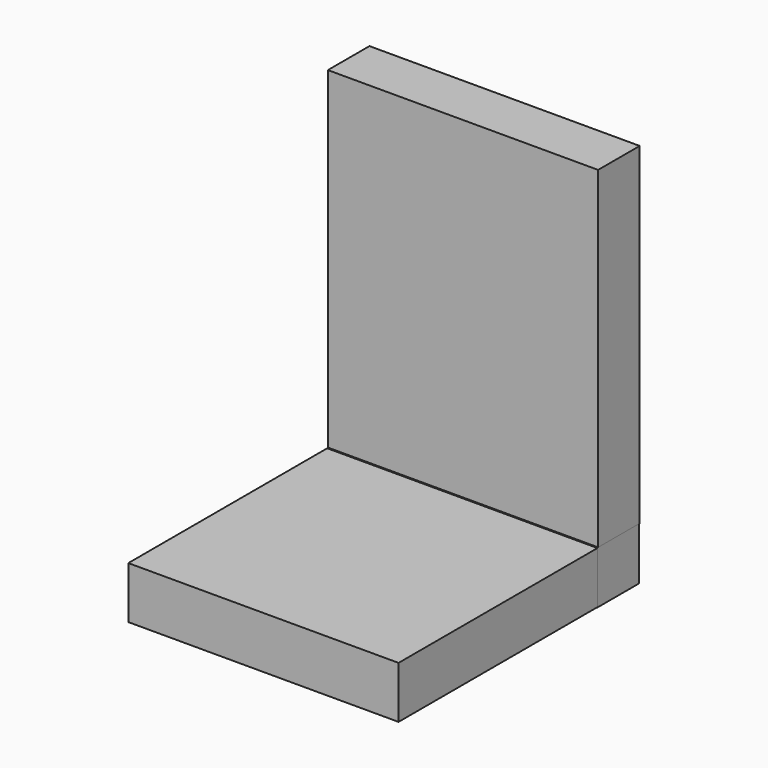
from build123d import *

# Parameters (mm, degrees)
F0_W     = 330.2
F0_H     = 304.8
F1_DEPTH = 31.75
F2_W     = 330.2
F2_H     = 63.5
F3_DEPTH = 406.4
F5_DEPTH = 165.1


with BuildPart() as f1:
    # F0 (on Top) → F1 (new body, symmetric)
    with BuildSketch(Plane.XY):
        with Locations((0, -2.177143)):
            Rectangle(F0_W, F0_H)
    extrude(amount=F1_DEPTH, both=True)

    # F2 (on face) → F3 (join)
    with BuildSketch(Plane.XY.offset(31.75)):
        with Locations((0, 181.972857)):
            Rectangle(F2_W, F2_H)
    extrude(amount=F3_DEPTH)


with BuildPart() as f5:
    # F4 (on Right) → F5 (new body, symmetric)
    with BuildSketch(Plane.YZ):
        Polygon((212.743093, 32.138608), (149.206907, 32.138608), (149.206907, 0), (149.206907, -32.138608), (212.743093, -32.138608), align=None)
    extrude(amount=F5_DEPTH, both=True)


solid = Compound([f1.part, f5.part])
